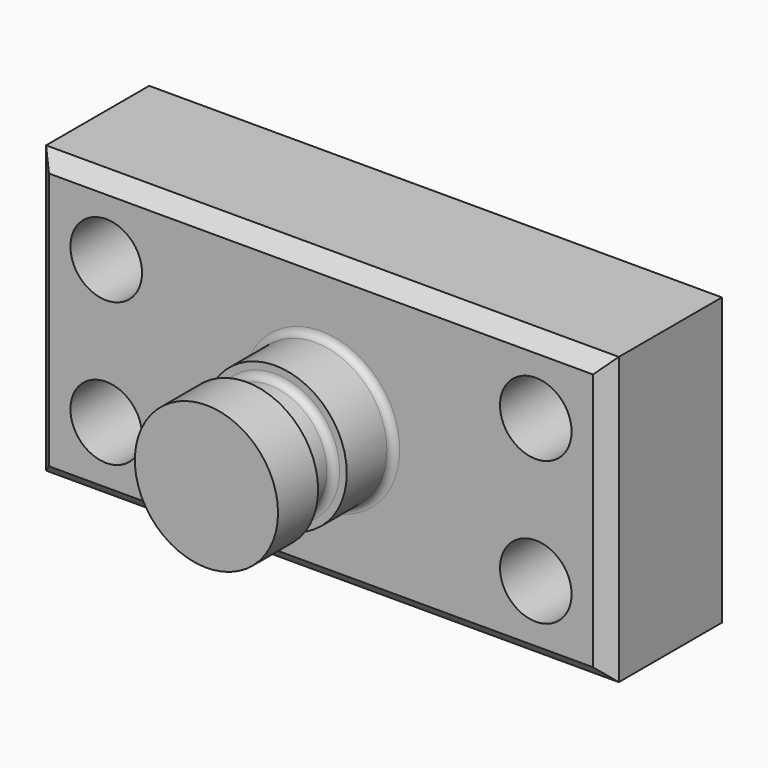
from build123d import *

# Parameters (mm, degrees)
F0_W     = 101.6
F0_H     = 50.8
F1_DEPTH = 25.4
F2_R     = 6.35
F3_DEPTH = 25.401
F4_W     = 12.7
F4_H     = 25.4
F6_W     = 7.649529
F6_H     = 6.35
F8_R     = 1.27
F9_SIZE  = 2.54


with BuildPart() as f1:
    # F0 (on Front) → F1 (new body)
    with BuildSketch(Plane.XZ):
        Rectangle(F0_W, F0_H)
    extrude(amount=F1_DEPTH)

    # F2 (on face) → F3 (cut, through all)
    with BuildSketch(Plane.XZ.offset(25.4)):
        with Locations((-38.1, 12.7)):
            Circle(F2_R)
        with Locations((-38.1, -12.7)):
            Circle(F2_R)
        with Locations((38.1, 12.7)):
            Circle(F2_R)
        with Locations((38.1, -12.7)):
            Circle(F2_R)
    extrude(amount=-F3_DEPTH, mode=Mode.SUBTRACT)

    # F4 (on Top) → F5 (revolve)
    with BuildSketch(Plane.XY):
        with Locations((6.35, -38.1)):
            Rectangle(F4_W, F4_H)
    revolve(axis=Axis((0, -38.1, 0), (0, -1, 0)))

    # F6 (on Top) → F7 (revolve, cut)
    with BuildSketch(Plane.XY):
        with Locations((13.984764, -38.735)):
            Rectangle(F6_W, F6_H)
    revolve(axis=Axis((0, -35.811, 0), (0, -1, 0)), mode=Mode.SUBTRACT)

    # F8
    f8_edges = [f1.edges().sort_by_distance(p)[0] for p in [
        (-12.7, -25.4, 0),
        (-10.16, -41.91, 0),
        (-10.16, -35.56, 0),
    ]]
    fillet(f8_edges, radius=F8_R)

    # F9
    f9_edges = [f1.edges().sort_by_distance(p)[0] for p in [
        (0, -25.4, 25.4),
        (-50.8, -25.4, 0),
        (0, -25.4, -25.4),
        (50.8, -25.4, 0),
    ]]
    chamfer(f9_edges, length=F9_SIZE)


solid = f1.part
